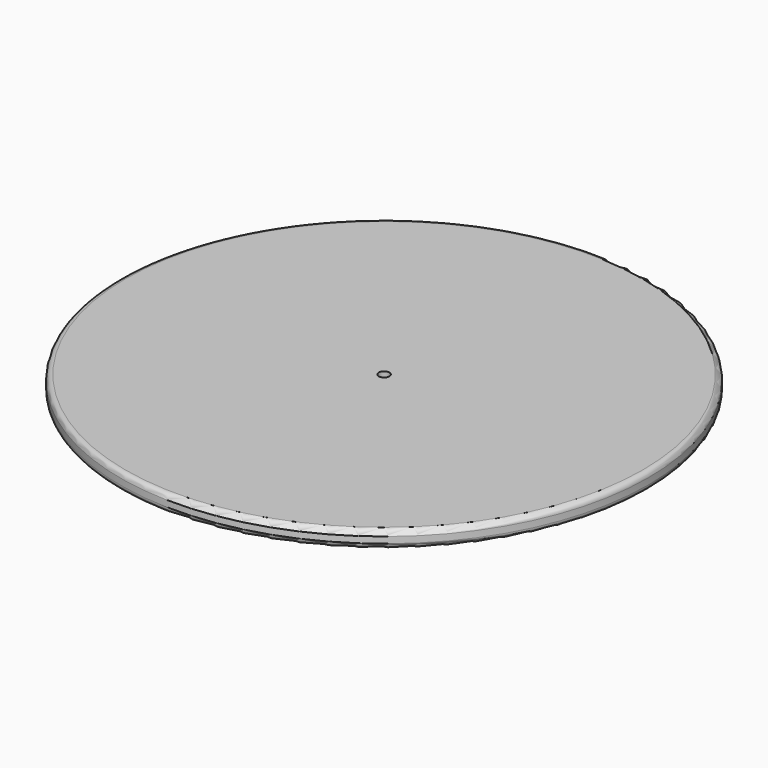
from build123d import *

# Parameters (mm, degrees)
F2_R     = 0.5
F3_R     = 0.5
F4_R     = 0.5
F5_R     = 0.5
F6_R     = 0.5
F7_R     = 0.5
F8_DEPTH = 1


with BuildPart() as f1:
    # F0 (on Front) → F1 (revolve)
    with BuildSketch(Plane.XZ):
        Polygon((25, 0), (0, 0), (0, -6.4), (1.25, -6.4), (1.25, -2.4), (3.25, -2.4), (3.25, -1.6), (25, -1.6), align=None)
    revolve(axis=Axis((0, 0, 0.442708), (0, 0, -1)))

    # F2
    f2_edges = [f1.edges().sort_by_distance(p)[0] for p in [
        (-1.25, 0, -6.4),
    ]]
    fillet(f2_edges, radius=F2_R)

    # F3
    f3_edges = [f1.edges().sort_by_distance(p)[0] for p in [
        (-3.25, 0, -2.4),
    ]]
    fillet(f3_edges, radius=F3_R)

    # F4
    f4_edges = [f1.edges().sort_by_distance(p)[0] for p in [
        (-3.25, 0, -1.6),
    ]]
    fillet(f4_edges, radius=F4_R)

    # F5
    f5_edges = [f1.edges().sort_by_distance(p)[0] for p in [
        (-25, 0, -1.6),
    ]]
    fillet(f5_edges, radius=F5_R)

    # F6
    f6_edges = [f1.edges().sort_by_distance(p)[0] for p in [
        (-25, 0, 0),
    ]]
    fillet(f6_edges, radius=F6_R)

    # F7 (on face) → F8 (cut)
    with BuildSketch(Plane.XY):
        Circle(F7_R)
    extrude(amount=-F8_DEPTH, mode=Mode.SUBTRACT)


solid = f1.part
